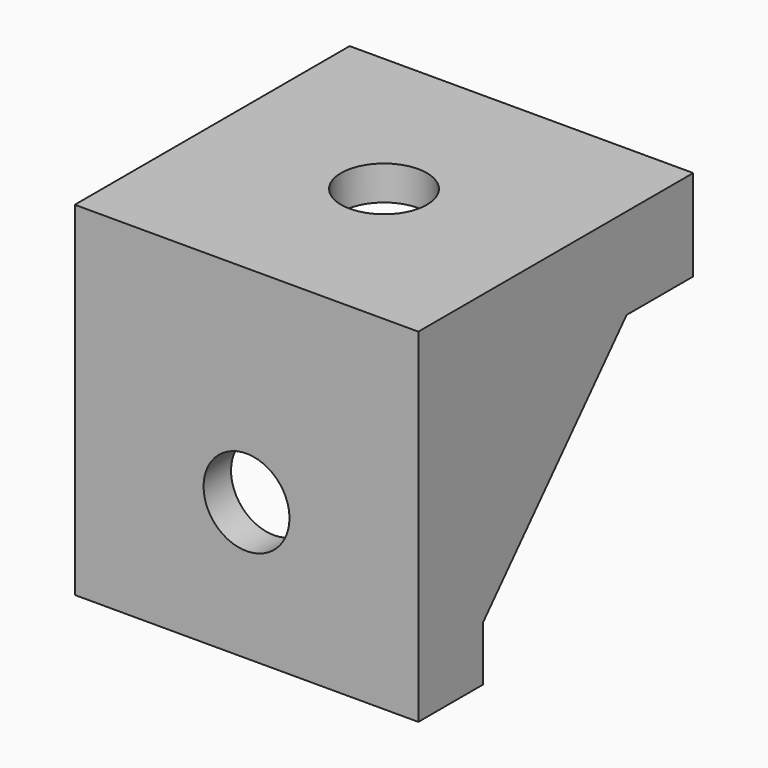
from build123d import *

# Parameters (mm, degrees)
SKETCH_W           = 20
SKETCH_H           = 20
PAD_DEPTH          = 2
SKETCH001_W        = 21.291687
SKETCH001_H        = 2
PAD001_DEPTH       = 20
POCKET_DEPTH       = 43
PAD002_DEPTH       = 1
PAD003_DEPTH       = 1
SKETCH004_R        = 2.5
POCKET001_DEPTH    = 5
SKETCH005_R        = 2.5
POCKET002_DEPTH    = 5
POCKET003_DEPTH    = 5
POCKET003_FACE1_W  = 20
POCKET003_FACE1_H  = 2
POCKET004_DEPTH    = 1.846
POCKET005_DEPTH    = 2.202
POCKET006_DEPTH    = 5
SKETCH006_W        = 32.068451
SKETCH006_H        = 15.041733
POCKET007_DEPTH    = 5
POCKET008_DEPTH    = 2
POCKET009_DEPTH    = 2
POCKET010_DEPTH    = 0.5
POCKET011_DEPTH    = 0.5
POCKET011_FACE18_W = 2.5141439852
POCKET011_FACE18_H = 1
POCKET012_DEPTH    = 5
POCKET012_FACE12_W = 1
POCKET012_FACE12_H = 2.5
POCKET013_DEPTH    = 5
POCKET014_DEPTH    = 0.5
POCKET014_FACE5_W  = 1
POCKET014_FACE5_H  = 0.5
POCKET015_DEPTH    = 5
POCKET016_DEPTH    = 0.5
POCKET016_FACE4_W  = 0.5
POCKET016_FACE4_H  = 1
POCKET017_DEPTH    = 7.2
PAD004_DEPTH       = 3.202
PAD005_DEPTH       = 4.846


with BuildPart() as part:
    # Sketch → Pad (new body)
    with BuildSketch(Plane.XY):
        with Locations((318.7276667125, 240.4208782875)):
            Rectangle(SKETCH_W, SKETCH_H)
    extrude(amount=-PAD_DEPTH)

    # Sketch001 (on Face6 of Pad) → Pad001 (join)
    with BuildSketch(Plane(origin=(0, 0, -2), x_dir=(1, 0, 0), z_dir=(0, 0, -1))):
        with Locations((319.1250915, -231.419662)):
            Rectangle(SKETCH001_W, SKETCH001_H)
    extrude(amount=PAD001_DEPTH)

    # Pad001 Face5 → Pocket (cut)
    with BuildSketch(Plane(origin=(325.2175581813, 231.4103392408, -2), x_dir=(0, 1, 0), z_dir=(0, 0, 1))):
        Polygon((1.0093227592, 16.7383101813), (-0.9906772408, 16.7383101813), (-0.9906772408, -4.5533768187), (1.0093227592, -4.5533768187), (1.0093227592, -3.5101085312), (-0.9894609532, -3.5101085312), (-0.9894609532, 16.4898914688), (1.0093227592, 16.4898914688), align=None)
    extrude(amount=-POCKET_DEPTH, mode=Mode.SUBTRACT)

    # Sketch002 (on Face7 of Pocket) → Pad002 (join)
    with BuildSketch(Plane(origin=(308.7276667125, 0, 0), x_dir=(0, -1, 0), z_dir=(-1, 0, 0))):
        Polygon((-250.405853, 0), (-230.420715, -22), (-230.420715, 0), align=None)
    extrude(amount=-PAD002_DEPTH)

    # Sketch003 (on Face2 of Pad002) → Pad003 (join)
    with BuildSketch(Plane.YZ.offset(328.7276667125)):
        Polygon((230.420883, 0.034144), (250.420822, 0.034144), (230.420883, -22.000002), align=None)
    extrude(amount=-PAD003_DEPTH)

    # Sketch004 (on Face6 of Pad003) → Pocket001 (cut)
    with BuildSketch(Plane(origin=(0, 232.419662, 0), x_dir=(-1, 0, 0), z_dir=(0, 1, 0))):
        with Locations((-318.723811, -11.999702)):
            Circle(SKETCH004_R)
    extrude(amount=-POCKET001_DEPTH, mode=Mode.SUBTRACT)

    # Sketch005 (on Face5 of Pocket001) → Pocket002 (cut)
    with BuildSketch(Plane(origin=(0, 0, -2), x_dir=(1, 0, 0), z_dir=(0, 0, -1))):
        with Locations((318.727692, -240.420898)):
            Circle(SKETCH005_R)
    extrude(amount=-POCKET002_DEPTH, mode=Mode.SUBTRACT)

    # Pocket002 Face19 → Pocket003 (cut)
    with BuildSketch(Plane(origin=(327.7276667125, 240.4131065518, 0.0170764125), x_dir=(0, 1, 0), z_dir=(-1, 0, 0))):
        Polygon((-9.9922235518, -0.0170675875), (10.0077154482, -0.0170675875), (9.976723645, 0.0170764125), (-9.9922235518, 0.0170764125), align=None)
    extrude(amount=-POCKET003_DEPTH, mode=Mode.SUBTRACT)

    # Pocket003 Face1 → Pocket004 (cut)
    with BuildSketch(Plane(origin=(318.7276667125, 250.4208782875, -1), x_dir=(1, 0, 0), z_dir=(0, 1, 0))):
        Rectangle(POCKET003_FACE1_W, POCKET003_FACE1_H)
    extrude(amount=-POCKET004_DEPTH, mode=Mode.SUBTRACT)

    # Pocket004 Face7 → Pocket005 (cut)
    with BuildSketch(Plane(origin=(318.7276662811, 231.4202701891, -22), x_dir=(0, -1, 0), z_dir=(0, 0, -1))):
        Polygon((-0.9993918109, 9.9999995686), (-0.9993918109, -10.0000004314), (0.9993853738, -10.0000004314), (0.9993853738, -9.0000004314), (0.9993871891, -9.0000004314), (0.9993871891, -10.0000004314), (0.9993919016, -10.0000004314), (0.9993919016, 9.9999995686), align=None)
    extrude(amount=-POCKET005_DEPTH, mode=Mode.SUBTRACT)

    # Pocket005 Face11 → Pocket006 (cut)
    with BuildSketch(Plane(origin=(309.7276667125, 230.4207966437, -10.9999550626), x_dir=(0, -1, 0), z_dir=(1, 0, 0))):
        Polygon((-8.16439e-05, 10.9998651876), (-8.16439e-05, 8.7980449374), (-8.16439e-05, -10.9999550626), (8.16437e-05, -10.9999550626), (8.16437e-05, 11.0000449374), align=None)
    extrude(amount=-POCKET006_DEPTH, mode=Mode.SUBTRACT)

    # Sketch006 (on Face7 of Pocket006) → Pocket007 (cut)
    with BuildSketch(Plane(origin=(0, 0, -19.798), x_dir=(1, 0, 0), z_dir=(0, 0, -1))):
        with Locations((318.3954625, -232.1317065)):
            Rectangle(SKETCH006_W, SKETCH006_H)
    extrude(amount=POCKET007_DEPTH, mode=Mode.SUBTRACT)

    # Pocket007 Face15 → Pocket008 (cut)
    with BuildSketch(Plane(origin=(318.7273379116, 231.4203047573, -19.798), x_dir=(0, -1, 0), z_dir=(0, 0, -1))):
        Polygon((-0.9993572427, 8.9996711991), (-0.9993572427, -10.0003288009), (0.9994264698, -10.0003288009), (0.9994264698, 9.9996711991), (-1.0007408734, 9.9996711991), (-1.0007408734, 8.9996711991), align=None)
    extrude(amount=-POCKET008_DEPTH, mode=Mode.SUBTRACT)

    # Pocket008 Face3 → Pocket009 (cut)
    with BuildSketch(Plane(origin=(318.7276667125, 248.5748782875, -1), x_dir=(1, 0, 0), z_dir=(0, 1, 0))):
        Polygon((10, -1), (10, 1), (-9, 1), (-10, 1), (-10, -1), align=None)
    extrude(amount=-POCKET009_DEPTH, mode=Mode.SUBTRACT)

    # Pocket009 Face7 → Pocket010 (cut)
    with BuildSketch(Plane(origin=(318.7273379116, 231.4203047573, -17.798), x_dir=(0, -1, 0), z_dir=(0, 0, -1))):
        Polygon((-0.9993572427, 8.9996711991), (-0.9993572427, -9.0003288009), (-0.9993572427, -10.0003288009), (0.9994264698, -10.0003288009), (0.9994264698, 9.9996711991), (-1.0007408734, 9.9996711991), (-1.0007408734, 8.9996711991), align=None)
    extrude(amount=-POCKET010_DEPTH, mode=Mode.SUBTRACT)

    # Pocket010 Face3 → Pocket011 (cut)
    with BuildSketch(Plane(origin=(318.7276667125, 246.5748782875, -1), x_dir=(1, 0, 0), z_dir=(0, 1, 0))):
        Polygon((10, -1), (10, 1), (9, 1), (-9, 1), (-10, 1), (-10, -1), align=None)
    extrude(amount=-POCKET011_DEPTH, mode=Mode.SUBTRACT)

    # Pocket011 Face18 → Pocket012 (cut)
    with BuildSketch(Plane(origin=(309.2276667125, 247.3319502801, -2), x_dir=(0, 1, 0), z_dir=(0, 0, 1))):
        Rectangle(POCKET011_FACE18_W, POCKET011_FACE18_H)
    extrude(amount=-POCKET012_DEPTH, mode=Mode.SUBTRACT)

    # Pocket012 Face12 → Pocket013 (cut)
    with BuildSketch(Plane(origin=(309.2276667125, 232.4210456307, -18.548), x_dir=(-1, 0, 0), z_dir=(0, -1, 0))):
        Rectangle(POCKET012_FACE12_W, POCKET012_FACE12_H)
    extrude(amount=-POCKET013_DEPTH, mode=Mode.SUBTRACT)

    # Pocket013 Face14 → Pocket014 (cut)
    with BuildSketch(Plane(origin=(318.7269644137, 231.6380559444, -17.298), x_dir=(0, -1, 0), z_dir=(0, 0, -1))):
        Polygon((-3.0507371065, -10.0007022988), (1.2171776569, -10.0007022988), (1.2171776569, 9.9992977012), (-3.0540280954, 9.9992977012), (-3.0540280954, 8.9992977012), (-0.7816060556, 8.9992977012), (-0.7816060556, -9.0007022988), (-3.0507371065, -9.0007022988), align=None)
    extrude(amount=-POCKET014_DEPTH, mode=Mode.SUBTRACT)

    # Pocket014 Face5 → Pocket015 (cut)
    with BuildSketch(Plane(origin=(328.2276667125, 234.688793051, -17.048), x_dir=(-1, 0, 0), z_dir=(0, -1, 0))):
        Rectangle(POCKET014_FACE5_W, POCKET014_FACE5_H)
    extrude(amount=-POCKET015_DEPTH, mode=Mode.SUBTRACT)

    # Pocket015 Face3 → Pocket016 (cut)
    with BuildSketch(Plane(origin=(318.7247895723, 246.0748782875, -1.2887227346), x_dir=(1, 0, 0), z_dir=(0, 1, 0))):
        Polygon((10.0028771402, -1.2887227346), (10.0028771402, 3.4651057821), (9.0028771402, 3.4651057821), (9.0028771402, 0.7112772654), (-8.9971228598, 0.7112772654), (-8.9971228598, 3.4788922638), (-9.9971228598, 3.4788922638), (-9.9971228598, -1.2887227346), align=None)
    extrude(amount=-POCKET016_DEPTH, mode=Mode.SUBTRACT)

    # Pocket016 Face4 → Pocket017 (cut)
    with BuildSketch(Plane(origin=(328.2276667125, 245.8248782875, -4.7538285167), x_dir=(0, 1, 0), z_dir=(0, 0, 1))):
        Rectangle(POCKET016_FACE4_W, POCKET016_FACE4_H)
    extrude(amount=-POCKET017_DEPTH, mode=Mode.SUBTRACT)

    # Pocket017 Face4 → Pad004 (add)
    with BuildSketch(Plane(origin=(318.7269014881, 231.7036107724, -16.798), x_dir=(0, -1, 0), z_dir=(0, 0, -1))):
        Polygon((-3.4390219463, -10.0007652244), (1.2827324849, -10.0007652244), (1.2827324849, 9.9992347756), (-3.4426809492, 9.9992347756), (-3.4426809492, 8.9992347756), (-0.7160512276, 8.9992347756), (-0.7160512276, -9.0007652244), (-3.4390219463, -9.0007652244), align=None)
    extrude(amount=PAD004_DEPTH)

    # Pad004 Face2 → Pad005 (add)
    with BuildSketch(Plane(origin=(318.7249484764, 245.5748782875, -1.3772371444), x_dir=(1, 0, 0), z_dir=(0, 1, 0))):
        Polygon((10.002718236, -1.3772371444), (10.002718236, 3.9274467025), (9.002718236, 3.9274467025), (9.002718236, 0.6227628556), (-8.997281764, 0.6227628556), (-8.997281764, 3.940786863), (-9.997281764, 3.940786863), (-9.997281764, -1.3772371444), align=None)
    extrude(amount=PAD005_DEPTH)


solid = part.part
